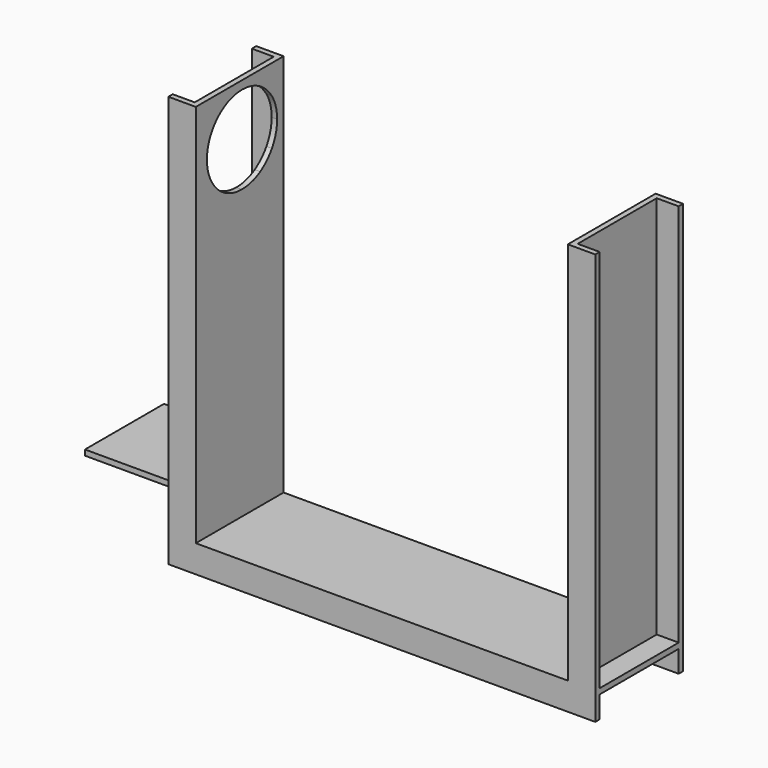
from build123d import *

# Parameters (mm, degrees)
F0_W      = 5
F0_H      = 370
F1_DEPTH  = 100
F0_W_2    = 20
F0_W_3    = 389
F0_H_2    = 20
F2_DEPTH  = 5
F3_W      = 20
F3_H      = 370
F4_DEPTH  = 5
F3_W_2    = 389
F3_H_2    = 20
F5_DEPTH  = 5
F7_DEPTH  = 20
F8_DEPTH  = 25
F10_DEPTH = 20
F9_W      = 45
F9_H      = 5
F11_DEPTH = 100


with BuildPart() as f1:
    # F0 (on Front) → F1 (new body)
    with BuildSketch(Plane.XZ):
        Polygon((-205.3960859776, 18.3333333333), (-205.3960859776, 13.3333333333), (183.6039140224, 13.3333333333), (183.6039140224, 18.3333333333), (163.6039140225, 18.3333333333), (158.6039140225, 18.3333333333), (-180.3960859776, 18.3333333333), (-185.3960859776, 18.3333333333), align=None)
        with Locations((-182.8960859776, 203.3333333333)):
            Rectangle(F0_W, F0_H)
        with Locations((161.1039140225, 203.3333333333)):
            Rectangle(F0_W, F0_H)
    extrude(amount=F1_DEPTH)

    # F0 (on Front) → F2 (join)
    with BuildSketch(Plane.XZ):
        with Locations((-195.3960859776, 203.3333333333)):
            Rectangle(F0_W_2, F0_H)
        with Locations((-10.8960859776, 3.3333333333)):
            Rectangle(F0_W_3, F0_H_2)
        with Locations((173.6039140224, 203.3333333333)):
            Rectangle(F0_W_2, F0_H)
    extrude(amount=F2_DEPTH)

    # F3 (on face) → F4 (join)
    with BuildSketch(Plane.XZ.offset(100)):
        with Locations((-195.3960859776, 203.3333333333)):
            Rectangle(F3_W, F3_H)
    extrude(amount=-F4_DEPTH)

    # F3 (on face) → F5 (join)
    with BuildSketch(Plane.XZ.offset(100)):
        with Locations((-10.8960859776, 3.3333333333)):
            Rectangle(F3_W_2, F3_H_2)
        with Locations((173.6039140225, 203.3333333333)):
            Rectangle(F3_W, F3_H)
    extrude(amount=-F5_DEPTH)

    # F7 (cut): a face of the model
    f7_faces = [f1.faces().sort_by_distance(p)[0] for p in [
        (162.573137616, -50, 388.3333333333),
    ]]
    extrude(f7_faces, amount=-F7_DEPTH, mode=Mode.SUBTRACT)

    # F6 (on face) → F8 (cut)
    with BuildSketch(Plane.YZ.offset(-180.3960859776)):
        with BuildLine():
            Line((-81.7000014901, 341.2361545223), (-81.7000014901, 320.7823193073))
            Line((-81.7000014901, 320.7823193073), (-53.5750014901, 320.7823193073))
            ThreePointArc((-53.5750014901, 320.7823193073), (-51.7353107636, 325.2108260661), (-47.2992664142, 327.0322663236))
            Line((-47.2992664142, 327.0322663236), (-47.1841779607, 354.9823193073))
            Line((-47.1841779607, 354.9823193073), (-68.0701213982, 354.9823193073))
            ThreePointArc((-68.0701213982, 354.9823193073), (-75.7291590422, 348.9461939299), (-81.7000014901, 341.2361545223))
        make_face()
        with BuildLine():
            ThreePointArc((-81.7000014901, 341.2361545223), (-85.8931230415, 331.3889210251), (-87.3250014901, 320.7823193073))
            Line((-87.3250014901, 320.7823193073), (-81.7000014901, 320.7823193073))
            Line((-81.7000014901, 320.7823193073), (-81.7000014901, 341.2361545223))
        make_face()
        with BuildLine():
            Line((-81.7000014901, 320.7823193073), (-87.3250014901, 320.7823193073))
            ThreePointArc((-87.3250014901, 320.7823193073), (-85.8931230415, 310.1757175895), (-81.7000014901, 300.3284840924))
            Line((-81.7000014901, 300.3284840924), (-81.7000014901, 320.7823193073))
        make_face()
        with BuildLine():
            Line((-13.3000014901, 320.7823193073), (-13.3000014901, 299.7514045626))
            ThreePointArc((-13.3000014901, 299.7514045626), (-8.847735475, 309.8507137528), (-7.3250014901, 320.7823193073))
            ThreePointArc((-7.3250014901, 320.7823193073), (-8.847735475, 331.7139248619), (-13.3000014901, 341.8132340521))
            Line((-13.3000014901, 341.8132340521), (-13.3000014901, 320.7823193073))
        make_face()
        with BuildLine():
            Line((-47.3507365661, 314.5323722911), (-47.4658250195, 286.5823193073))
            Line((-47.4658250195, 286.5823193073), (-26.579881582, 286.5823193073))
            ThreePointArc((-26.579881582, 286.5823193073), (-19.1594603041, 292.3798143175), (-13.3000014901, 299.7514045626))
            Line((-13.3000014901, 299.7514045626), (-13.3000014901, 320.7823193073))
            Line((-13.3000014901, 320.7823193073), (-41.0750014901, 320.7823193073))
            ThreePointArc((-41.0750014901, 320.7823193073), (-42.9146922166, 316.3538125486), (-47.3507365661, 314.5323722911))
        make_face()
        with BuildLine():
            Line((-26.579881582, 354.9823193073), (-47.1841779607, 354.9823193073))
            Line((-47.1841779607, 354.9823193073), (-47.2992664142, 327.0322663236))
            ThreePointArc((-47.2992664142, 327.0322663236), (-42.8964947314, 325.1926285808), (-41.0750014901, 320.7823193073))
            Line((-41.0750014901, 320.7823193073), (-13.3000014901, 320.7823193073))
            Line((-13.3000014901, 320.7823193073), (-13.3000014901, 341.8132340521))
            ThreePointArc((-13.3000014901, 341.8132340521), (-19.1594603041, 349.1848242972), (-26.579881582, 354.9823193073))
        make_face()
        with BuildLine():
            Line((-53.5750014901, 320.7823193073), (-81.7000014901, 320.7823193073))
            Line((-81.7000014901, 320.7823193073), (-81.7000014901, 300.3284840924))
            ThreePointArc((-81.7000014901, 300.3284840924), (-75.7291590422, 292.6184446848), (-68.0701213982, 286.5823193073))
            Line((-68.0701213982, 286.5823193073), (-47.4658250195, 286.5823193073))
            Line((-47.4658250195, 286.5823193073), (-47.3507365661, 314.5323722911))
            ThreePointArc((-47.3507365661, 314.5323722911), (-51.7535082489, 316.3720100339), (-53.5750014901, 320.7823193073))
        make_face()
        with BuildLine():
            ThreePointArc((-68.0701213982, 286.5823193073), (-58.1746192575, 282.2818544491), (-47.4897059762, 280.7826584034))
            Line((-47.4897059762, 280.7826584034), (-47.4658250195, 286.5823193073))
            Line((-47.4658250195, 286.5823193073), (-68.0701213982, 286.5823193073))
        make_face()
        with BuildLine():
            Line((-47.4658250195, 286.5823193073), (-47.4897059762, 280.7826584034))
            ThreePointArc((-47.4897059762, 280.7826584034), (-36.6340056812, 282.237506315), (-26.579881582, 286.5823193073))
            Line((-26.579881582, 286.5823193073), (-47.4658250195, 286.5823193073))
        make_face()
        with BuildLine():
            Line((-47.3250014901, 320.7823193073), (-53.5750014901, 320.7823193073))
            ThreePointArc((-53.5750014901, 320.7823193073), (-51.7535082489, 316.3720100339), (-47.3507365661, 314.5323722911))
            Line((-47.3507365661, 314.5323722911), (-47.3250014901, 320.7823193073))
        make_face()
        with BuildLine():
            ThreePointArc((-47.2992664142, 327.0322663236), (-51.7353107636, 325.2108260661), (-53.5750014901, 320.7823193073))
            Line((-53.5750014901, 320.7823193073), (-47.3250014901, 320.7823193073))
            Line((-47.3250014901, 320.7823193073), (-47.2992664142, 327.0322663236))
        make_face()
        with BuildLine():
            Line((-47.2992664142, 327.0322663236), (-47.3250014901, 320.7823193073))
            Line((-47.3250014901, 320.7823193073), (-41.0750014901, 320.7823193073))
            ThreePointArc((-41.0750014901, 320.7823193073), (-42.8964947314, 325.1926285808), (-47.2992664142, 327.0322663236))
        make_face()
        with BuildLine():
            Line((-41.0750014901, 320.7823193073), (-47.3250014901, 320.7823193073))
            Line((-47.3250014901, 320.7823193073), (-47.3507365661, 314.5323722911))
            ThreePointArc((-47.3507365661, 314.5323722911), (-42.9146922166, 316.3538125486), (-41.0750014901, 320.7823193073))
        make_face()
        with BuildLine():
            Line((-47.1841779607, 354.9823193073), (-47.160297004, 360.7819802113))
            ThreePointArc((-47.160297004, 360.7819802113), (-58.015997299, 359.3271322997), (-68.0701213982, 354.9823193073))
            Line((-68.0701213982, 354.9823193073), (-47.1841779607, 354.9823193073))
        make_face()
        with BuildLine():
            ThreePointArc((-26.579881582, 354.9823193073), (-36.4753837227, 359.2827841656), (-47.160297004, 360.7819802113))
            Line((-47.160297004, 360.7819802113), (-47.1841779607, 354.9823193073))
            Line((-47.1841779607, 354.9823193073), (-26.579881582, 354.9823193073))
        make_face()
    extrude(amount=-F8_DEPTH, mode=Mode.SUBTRACT)

    # F10 (cut): a face of the model
    f10_faces = [f1.faces().sort_by_distance(p)[0] for p in [
        (-204.3653095712, -2.5, 388.3333333333),
    ]]
    extrude(f10_faces, amount=-F10_DEPTH, mode=Mode.SUBTRACT)

    # F9 (on face) → F11 (join)
    with BuildSketch(Plane(origin=(-185.3960859776, 0, 0), x_dir=(0, -1, 0), z_dir=(-1, 0, 0))):
        with Locations((72.5, 54.8333333333)):
            Rectangle(F9_W, F9_H)
        with Locations((27.5, 54.8333333333)):
            Rectangle(F9_W, F9_H)
    extrude(amount=F11_DEPTH)


solid = f1.part
